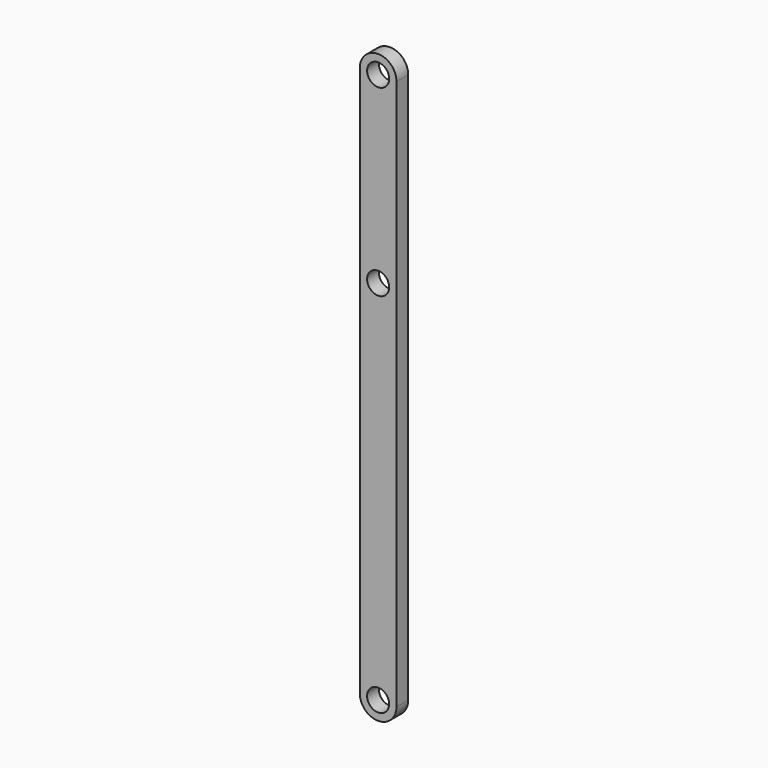
from build123d import *

# Parameters (mm, degrees)
F0_R     = 1.5
F1_DEPTH = 2


with BuildPart() as f1:
    # F0 (on Front) → F1 (new body)
    with BuildSketch(Plane.XZ):
        with BuildLine():
            Line((2.5, -37.5), (2.5, 37.5))
            ThreePointArc((2.5, 37.5), (0, 40), (-2.5, 37.5))
            Line((-2.5, 37.5), (-2.5, -37.5))
            ThreePointArc((-2.5, -37.5), (0, -40), (2.5, -37.5))
        make_face()
        with Locations((0, -37.5)):
            Circle(F0_R, mode=Mode.SUBTRACT)
        with Locations((0, 12.5)):
            Circle(F0_R, mode=Mode.SUBTRACT)
        with Locations((0, 37.5)):
            Circle(F0_R, mode=Mode.SUBTRACT)
    extrude(amount=F1_DEPTH)


solid = f1.part
